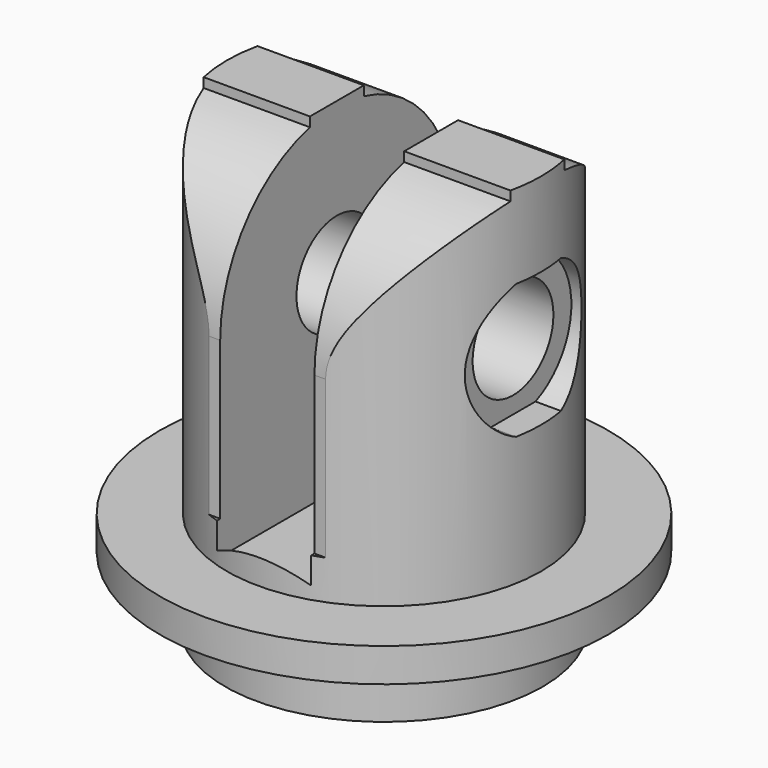
from build123d import *

# Parameters (mm, degrees)
F0_R           = 14.15
F0_R_2         = 1.5
F1_DEPTH       = 6
F2_R           = 20
F2_R_2         = 1.5
F3_DEPTH       = 3
F4_R           = 14
F4_R_2         = 1.5
F5_DEPTH       = 31
F6_R           = 4.5
F7_DEPTH       = 20.001
F7_DEPTH_BACK  = 20.001
F9_DEPTH       = 4.2
F11_DEPTH      = 20.001
F11_DEPTH_BACK = 20.001
F14_DEPTH      = 25
F17_DEPTH      = 25


with BuildPart() as f1:
    # F0 (on Top) → F1 (new body)
    with BuildSketch(Plane.XY):
        Circle(F0_R)
        Circle(F0_R_2, mode=Mode.SUBTRACT)
    extrude(amount=F1_DEPTH)

    # F2 (on face) → F3 (join)
    with BuildSketch(Plane.XY.offset(6)):
        Circle(F2_R)
        Circle(F2_R_2, mode=Mode.SUBTRACT)
    extrude(amount=F3_DEPTH)

    # F4 (on face) → F5 (join)
    with BuildSketch(Plane.XY.offset(9)):
        Circle(F4_R)
        Circle(F4_R_2, mode=Mode.SUBTRACT)
    extrude(amount=F5_DEPTH)

    # F6 (on Right) → F7 (cut, two sides)
    with BuildSketch(Plane.YZ) as f7_sk:
        with Locations((0, 26.5)):
            Circle(F6_R)
    extrude(amount=-F7_DEPTH, mode=Mode.SUBTRACT)
    extrude(f7_sk.sketch, amount=F7_DEPTH_BACK, mode=Mode.SUBTRACT)

    # F8 (on Right) → F9 (cut, symmetric)
    with BuildSketch(Plane.YZ):
        Polygon((-12.9903810568, 9.5), (12.9903810568, 9.5), (25.9807621135, 32), (25.9807621135, 52.7080496021), (-25.9807621135, 52.7080496021), (-25.9807621135, 32), align=None)
    extrude(amount=F9_DEPTH, both=True, mode=Mode.SUBTRACT)

    # F10 (on Right) → F11 (cut, two sides)
    with BuildSketch(Plane.YZ) as f11_sk:
        with BuildLine():
            Line((-3, 39.1491106407), (-3, 43.1880317001))
            Line((-3, 43.1880317001), (3, 43.1880317001))
            Line((3, 43.1880317001), (3, 39.1491106407))
            ThreePointArc((3, 39.1491106407), (10.1980390272, 34.5622577483), (13, 26.5))
            Line((13, 26.5), (13, 12.5))
            Line((13, 12.5), (19.3005313302, 12.5))
            Line((19.3005313302, 12.5), (19.3005313302, 47.1742767518))
            Line((19.3005313302, 47.1742767518), (-17.3973576033, 47.1742767518))
            Line((-17.3973576033, 47.1742767518), (-17.4070411782, 12.5))
            Line((-17.4070411782, 12.5), (-13, 12.5))
            Line((-13, 12.5), (-13, 26.5))
            ThreePointArc((-13, 26.5), (-10.1980390272, 34.5622577483), (-3, 39.1491106407))
        make_face()
    extrude(amount=-F11_DEPTH, mode=Mode.SUBTRACT)
    extrude(f11_sk.sketch, amount=F11_DEPTH_BACK, mode=Mode.SUBTRACT)

    # F13 (on offset) → F14 (cut)
    with BuildSketch(Plane.YZ.offset(11.5)):
        with BuildLine():
            Line((2.5, 32.5), (-2.5, 32.5))
            ThreePointArc((-2.5, 32.5), (-6.5, 26.5), (-2.5, 20.5))
            Line((-2.5, 20.5), (2.5, 20.5))
            ThreePointArc((2.5, 20.5), (6.5, 26.5), (2.5, 32.5))
        make_face()
    extrude(amount=F14_DEPTH, mode=Mode.SUBTRACT)

    # F16 (on offset) → F17 (cut)
    with BuildSketch(Plane.YZ.offset(-11.5)):
        with BuildLine():
            Line((2.5, 32.5), (-2.5, 32.5))
            ThreePointArc((-2.5, 32.5), (-6.5, 26.5), (-2.5, 20.5))
            Line((-2.5, 20.5), (2.5, 20.5))
            ThreePointArc((2.5, 20.5), (6.5, 26.5), (2.5, 32.5))
        make_face()
    extrude(amount=-F17_DEPTH, mode=Mode.SUBTRACT)


solid = f1.part
